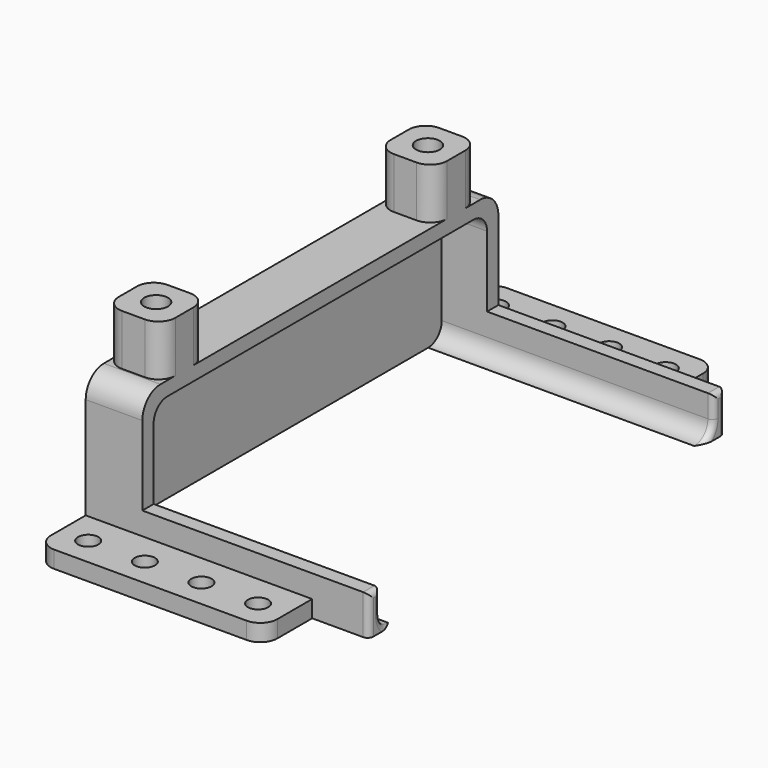
from build123d import *

# Parameters (mm, degrees)
BOX_W             = 141
BOX_H             = 73.6
BOX_DEPTH         = 22.5
FILLET_R          = 3
CYLINDER001_R     = 2.1
CYLINDER001_DEPTH = 10
BOX003_W          = 10
BOX003_H          = 10
BOX003_DEPTH      = 9
FILLET003_R       = 3
CYLINDER_R        = 1.8
CYLINDER_DEPTH    = 10
ARRAY_X_COUNT     = 4
ARRAY_X_PITCH     = 10
BOX002_W          = 40
BOX002_H          = 100
BOX002_DEPTH      = 3
FILLET001_R       = 3
BOX005_W          = 50
BOX005_H          = 78.6
BOX005_DEPTH      = 7
FILLET005_R       = 1
BOX001_W          = 10
BOX001_H          = 78.6
BOX001_DEPTH      = 25
FILLET002_R       = 4


with BuildPart() as battery_fillet:
    # Box → Box (new body)
    with BuildSketch(Plane(origin=(2, 0, 0), x_dir=(1, 0, 0), z_dir=(0, 0, 1))):
        with Locations((70.5, 36.8)):
            Rectangle(BOX_W, BOX_H)
    extrude(amount=BOX_DEPTH)

    # Fillet
    fillet_edges = [battery_fillet.edges().sort_by_distance(p)[0] for p in [
        (72.5, 0, 0),
        (72.5, 0, 22.5),
        (72.5, 73.6, 0),
        (72.5, 73.6, 22.5),
    ]]
    fillet(fillet_edges, radius=FILLET_R)


with BuildPart() as battery_fillet_1:
    # Fillet placement: moved
    add(battery_fillet.part.moved(Location((0, -36.8, 0))))


with BuildPart() as insert_hole:
    # Cylinder001 → Cylinder001 (new body)
    with BuildSketch(Plane(origin=(5, 0, 0), x_dir=(1, 0, 0), z_dir=(0, 0, 1))):
        Circle(CYLINDER001_R)
    extrude(amount=CYLINDER001_DEPTH)


with BuildPart() as top_insert_box_cut:
    # Box003 → Box003 (new body)
    with BuildSketch(Plane(origin=(0, -5, 0), x_dir=(1, 0, 0), z_dir=(0, 0, 1))):
        with Locations((5, 5)):
            Rectangle(BOX003_W, BOX003_H)
    extrude(amount=BOX003_DEPTH)

    # Fillet003
    fillet003_edges = [top_insert_box_cut.edges().sort_by_distance(p)[0] for p in [
        (0, -5, 4.5),
        (0, 5, 4.5),
        (10, -5, 4.5),
        (10, 5, 4.5),
    ]]
    fillet(fillet003_edges, radius=FILLET003_R)

    # Cut: cut insert hole
    add(insert_hole.part, mode=Mode.SUBTRACT)


with BuildPart() as top_insert_box_cut_1:
    # Cut placement: moved
    add(top_insert_box_cut.part.moved(Location((0, 30, 25))))


with BuildPart() as part_mirroring001:
    # Part__Mirroring001: instance of top insert box cut
    add(top_insert_box_cut_1.part.mirror(Plane(origin=(0, 0, 0), x_dir=(1, 0, 0), z_dir=(0, 1, 0))))


with BuildPart() as bolt_hole:
    # Cylinder → Cylinder (new body)
    with BuildSketch(Plane(origin=(5, 45, 0), x_dir=(1, 0, 0), z_dir=(0, 0, 1))):
        Circle(CYLINDER_R)
    extrude(amount=CYLINDER_DEPTH)


with BuildPart() as bolt_hole_array:
    # Part__Mirroring: instance of bolt hole
    add(bolt_hole.part.mirror(Plane(origin=(0, 0, 0), x_dir=(1, 0, 0), z_dir=(0, 1, 0))))

    # Fusion: union bolt hole
    add(bolt_hole.part)

    # Array X: bolt hole array ×4


with BuildPart() as bolt_hole_array_1:
    add(bolt_hole_array.part)
    with Locations(*[(i * ARRAY_X_PITCH, 0, 0) for i in range(1, ARRAY_X_COUNT)]):
        add(bolt_hole_array.part)


with BuildPart() as back_wall_bottom_cut:
    # Box002 → Box002 (new body)
    with BuildSketch(Plane(origin=(0, -50, 0), x_dir=(1, 0, 0), z_dir=(0, 0, 1))):
        with Locations((20, 50)):
            Rectangle(BOX002_W, BOX002_H)
    extrude(amount=BOX002_DEPTH)

    # Fillet001
    fillet001_edges = [back_wall_bottom_cut.edges().sort_by_distance(p)[0] for p in [
        (0, -50, 1.5),
        (0, 50, 1.5),
        (40, -50, 1.5),
        (40, 50, 1.5),
    ]]
    fillet(fillet001_edges, radius=FILLET001_R)

    # Cut001: cut bolt hole array
    add(bolt_hole_array_1.part, mode=Mode.SUBTRACT)


with BuildPart() as big_bottom_cube_fillet:
    # Box005 → Box005 (new body)
    with BuildSketch(Plane(origin=(0, -39.3, 0), x_dir=(1, 0, 0), z_dir=(0, 0, 1))):
        with Locations((25, 39.3)):
            Rectangle(BOX005_W, BOX005_H)
    extrude(amount=BOX005_DEPTH)

    # Cut004: cut battery fillet
    add(battery_fillet_1.part, mode=Mode.SUBTRACT)

    # Fillet005
    fillet005_edges = [big_bottom_cube_fillet.edges().sort_by_distance(p)[0] for p in [
        (50, -39.3, 3.5),
        (50, 38.05, 7),
        (50, -38.05, 7),
        (50, 39.3, 3.5),
        (50, -36.8, 5),
        (50, -35.92132, 0.87868),
        (50, 35.92132, 0.87868),
        (50, 36.8, 5),
    ]]
    fillet(fillet005_edges, radius=FILLET005_R)


with BuildPart() as battery_back_wall_cut:
    # Box001 → Box001 (new body)
    with BuildSketch(Plane(origin=(0, -39.3, 0), x_dir=(1, 0, 0), z_dir=(0, 0, 1))):
        with Locations((5, 39.3)):
            Rectangle(BOX001_W, BOX001_H)
    extrude(amount=BOX001_DEPTH)

    # Fillet002
    fillet002_edges = [battery_back_wall_cut.edges().sort_by_distance(p)[0] for p in [
        (5, -39.3, 25),
        (5, 39.3, 25),
    ]]
    fillet(fillet002_edges, radius=FILLET002_R)

    # Fusion001: union Part__Mirroring001, top insert box cut, back wall bottom cut, big bottom cube fillet
    add(part_mirroring001.part)
    add(top_insert_box_cut_1.part)
    add(back_wall_bottom_cut.part)
    add(big_bottom_cube_fillet.part)

    # Cut002: cut battery fillet
    add(battery_fillet_1.part, mode=Mode.SUBTRACT)


solid = battery_back_wall_cut.part
